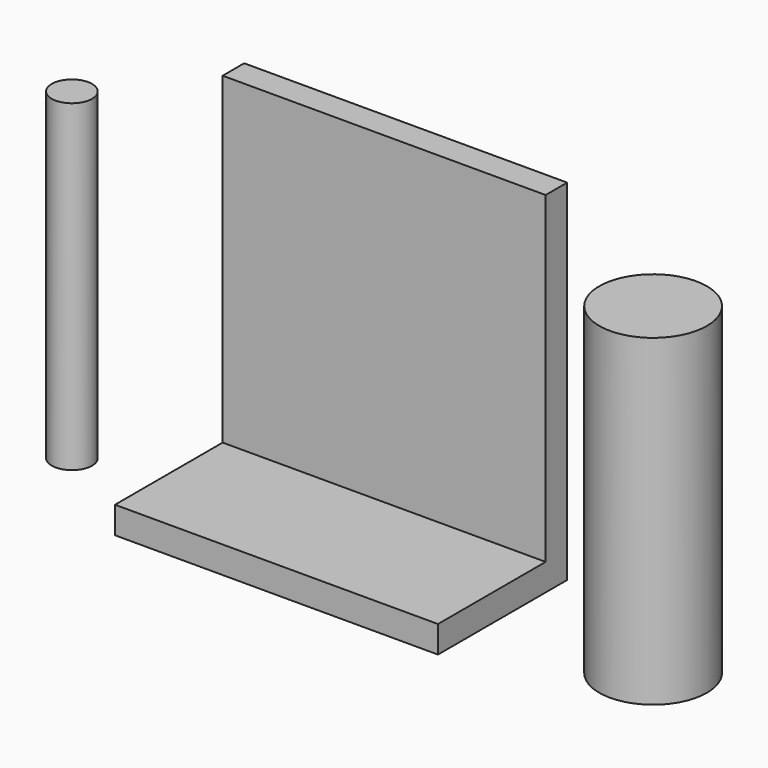
from build123d import *

# Parameters (mm, degrees)
F0_W     = 609.6
F0_H     = 304.8
F1_DEPTH = 50.8
F2_W     = 609.6
F2_H     = 50.8
F3_DEPTH = 609.6
F4_R     = 101.6
F5_DEPTH = 609.6
F6_R     = 38.1
F7_DEPTH = 609.6


with BuildPart() as f1:
    # F0 (on Top) → F1 (new body)
    with BuildSketch(Plane.XY):
        Rectangle(F0_W, F0_H)
    extrude(amount=F1_DEPTH)

    # F2 (on face) → F3 (join)
    with BuildSketch(Plane.XY.offset(50.8)):
        with Locations((0, 127)):
            Rectangle(F2_W, F2_H)
    extrude(amount=F3_DEPTH)


with BuildPart() as f5:
    # F4 (on Top) → F5 (new body)
    with BuildSketch(Plane.XY):
        with Locations((588.93214, 0)):
            Circle(F4_R)
    extrude(amount=F5_DEPTH)


with BuildPart() as f7:
    # F6 (on Top) → F7 (new body)
    with BuildSketch(Plane.XY):
        with Locations((-508, 0)):
            Circle(F6_R)
    extrude(amount=F7_DEPTH)


solid = Compound([f1.part, f5.part, f7.part])
